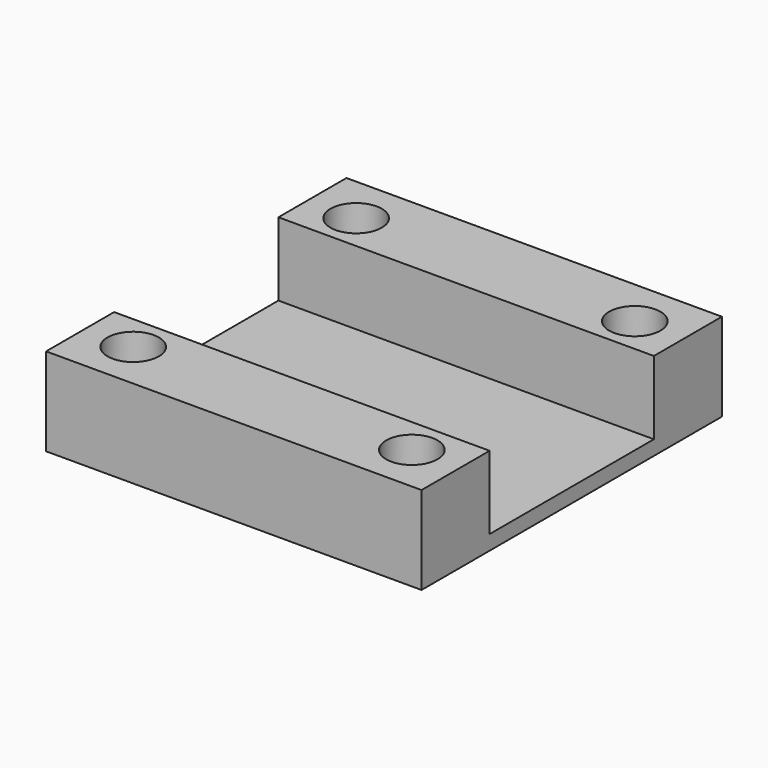
from build123d import *

# Parameters (mm, degrees)
F0_W     = 51.2
F0_H     = 11.6
F0_R     = 2
F0_H_2   = 28
F1_DEPTH = 2
F2_W     = 51.2
F2_H     = 11.6
F2_R     = 2
F3_DEPTH = 5
F4_W     = 51.2
F4_H     = 11.6
F4_R     = 3.5
F5_DEPTH = 5


with BuildPart() as f1:
    # F0 (on Top) → F1 (new body)
    with BuildSketch(Plane.XY):
        with Locations((0, -19.8)):
            Rectangle(F0_W, F0_H)
        with Locations((-19, -19)):
            Circle(F0_R, mode=Mode.SUBTRACT)
        with Locations((19, -19)):
            Circle(F0_R, mode=Mode.SUBTRACT)
        Rectangle(F0_W, F0_H_2)
        with Locations((0, 19.8)):
            Rectangle(F0_W, F0_H)
        with Locations((-19, 19)):
            Circle(F0_R, mode=Mode.SUBTRACT)
        with Locations((19, 19)):
            Circle(F0_R, mode=Mode.SUBTRACT)
    extrude(amount=F1_DEPTH)

    # F2 (on face) → F3 (join)
    with BuildSketch(Plane.XY.offset(2)):
        with Locations((0, 19.8)):
            Rectangle(F2_W, F2_H)
        with Locations((-19, 19)):
            Circle(F2_R, mode=Mode.SUBTRACT)
        with Locations((19, 19)):
            Circle(F2_R, mode=Mode.SUBTRACT)
        with Locations((0, -19.8)):
            Rectangle(F2_W, F2_H)
        with Locations((-19, -19)):
            Circle(F2_R, mode=Mode.SUBTRACT)
        with Locations((19, -19)):
            Circle(F2_R, mode=Mode.SUBTRACT)
    extrude(amount=F3_DEPTH)

    # F4 (on face) → F5 (join)
    with BuildSketch(Plane.XY.offset(7)):
        with Locations((0, 19.8)):
            Rectangle(F4_W, F4_H)
        with Locations((-19, 19)):
            Circle(F4_R, mode=Mode.SUBTRACT)
        with Locations((19, 19)):
            Circle(F4_R, mode=Mode.SUBTRACT)
        with Locations((0, -19.8)):
            Rectangle(F4_W, F4_H)
        with Locations((-19, -19)):
            Circle(F4_R, mode=Mode.SUBTRACT)
        with Locations((19, -19)):
            Circle(F4_R, mode=Mode.SUBTRACT)
    extrude(amount=F5_DEPTH)


solid = f1.part
